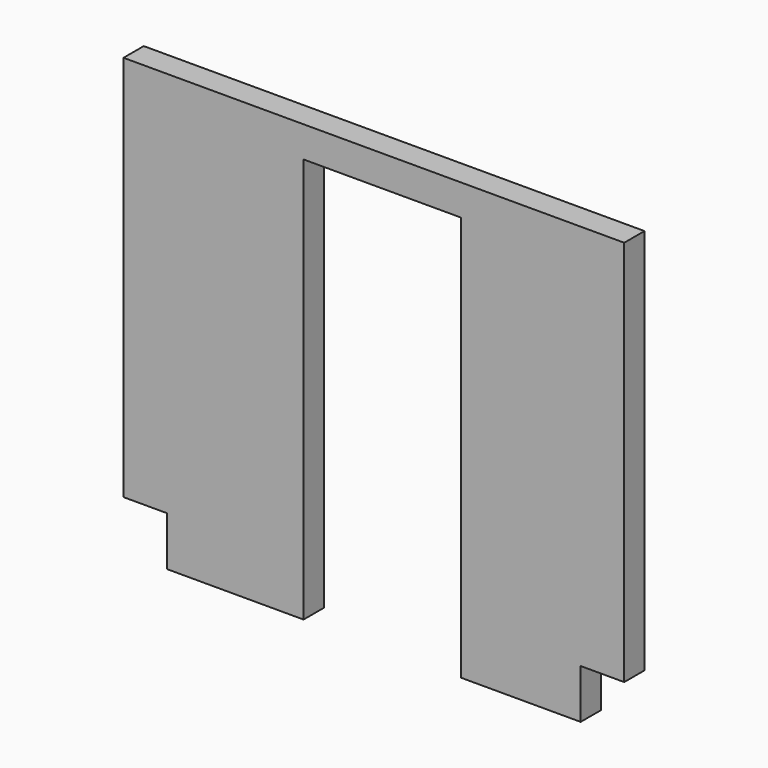
from build123d import *

# Parameters (mm, degrees)
F0_W     = 2260.6
F0_H     = 114.3
F1_DEPTH = 1968.5
F2_W     = 711.2
F2_H     = 1828.8
F3_DEPTH = 114.301
F4_W     = 196.85
F4_H     = 222.25
F5_DEPTH = 114.301


with BuildPart() as f1:
    # F0 (on Top) → F1 (new body)
    with BuildSketch(Plane.XY):
        with Locations((-1130.3, -971.55)):
            Rectangle(F0_W, F0_H)
    extrude(amount=F1_DEPTH)

    # F2 (on face) → F3 (cut, through all)
    with BuildSketch(Plane.XZ.offset(1028.7)):
        with Locations((-1092.2, 914.4)):
            Rectangle(F2_W, F2_H)
    extrude(amount=-F3_DEPTH, mode=Mode.SUBTRACT)

    # F4 (on face) → F5 (cut, through all)
    with BuildSketch(Plane.XZ.offset(1028.7)):
        with Locations((-2162.175, 111.125)):
            Rectangle(F4_W, F4_H)
        with Locations((-98.425, 111.125)):
            Rectangle(F4_W, F4_H)
    extrude(amount=-F5_DEPTH, mode=Mode.SUBTRACT)


solid = f1.part
